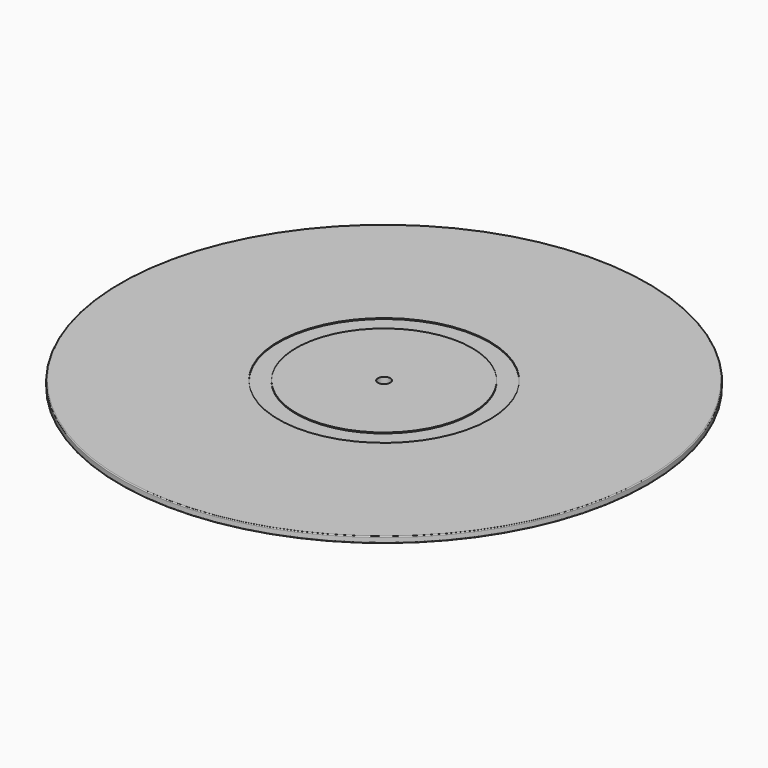
from build123d import *

# Parameters (mm, degrees)
SKETCH_R      = 150
SKETCH_R_2    = 3.5
PAD_DEPTH     = 1.75
FILLET_R      = 0.5
SKETCH001_R   = 60
SKETCH001_R_2 = 50
POCKET_DEPTH  = 0.5


with BuildPart() as part:
    # Sketch → Pad (new body, symmetric)
    with BuildSketch(Plane.XY):
        Circle(SKETCH_R)
        Circle(SKETCH_R_2, mode=Mode.SUBTRACT)
    extrude(amount=PAD_DEPTH, both=True)

    # Fillet
    fillet_edges = [part.edges().sort_by_distance(p)[0] for p in [
        (150, 0, 0),
        (-150, 0, -1.75),
        (-150, 0, 1.75),
    ]]
    fillet(fillet_edges, radius=FILLET_R)

    # Sketch001 → Pocket (cut)
    with BuildSketch(Plane.XY.offset(1.75)):
        Circle(SKETCH001_R)
        Circle(SKETCH001_R_2, mode=Mode.SUBTRACT)
    pocket = extrude(amount=-POCKET_DEPTH, mode=Mode.SUBTRACT)

    # Mirrored: Pocket across XY
    add(pocket.mirror(Plane.XY), mode=Mode.SUBTRACT)


solid = part.part
